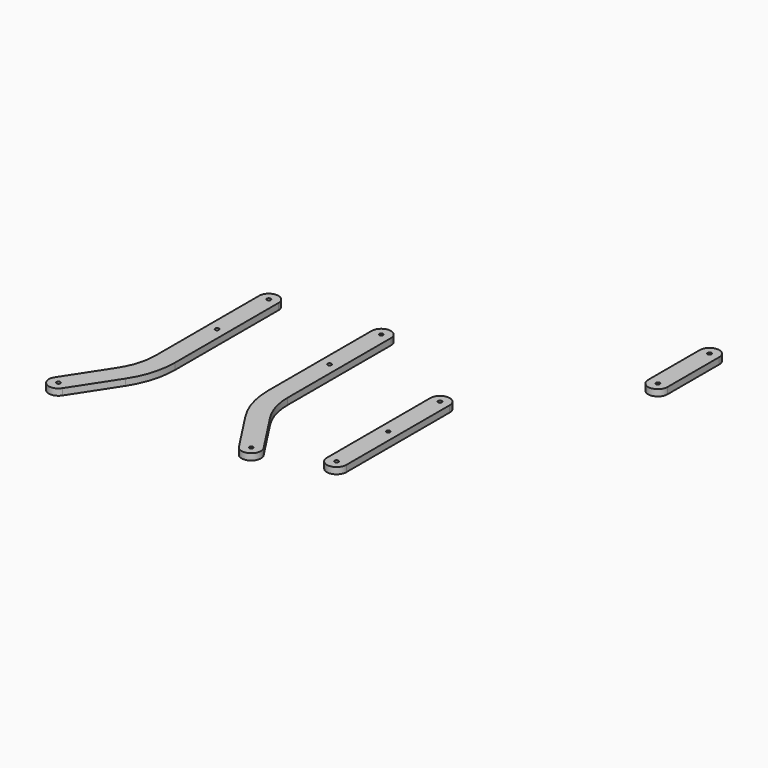
from build123d import *

# Parameters (mm, degrees)
F0_R     = 1.5
F1_DEPTH = 5
F3_DEPTH = 5
F4_DEPTH = 5
F6_DEPTH = 5


with BuildPart() as f1:
    # F0 (on Top) → F1 (new body)
    with BuildSketch(Plane.XY):
        with BuildLine():
            Line((31.873505, 19.199338), (25.873505, 19.199338))
            Line((25.873505, 19.199338), (25.873505, -80.800662))
            Line((25.873505, -80.800662), (31.873505, -80.800662))
            ThreePointArc((31.873505, -80.800662), (33.373505, -79.300662), (34.873505, -80.800662))
            Line((34.873505, -80.800662), (40.873505, -80.800662))
            Line((40.873505, -80.800662), (40.873505, 19.199338))
            Line((40.873505, 19.199338), (34.873505, 19.199338))
            ThreePointArc((34.873505, 19.199338), (33.373505, 17.699338), (31.873505, 19.199338))
        make_face()
        with Locations((33.373505, -30.800662)):
            Circle(F0_R, mode=Mode.SUBTRACT)
        with BuildLine():
            ThreePointArc((40.873505, 19.199338), (33.373505, 26.699338), (25.873505, 19.199338))
            Line((25.873505, 19.199338), (31.873505, 19.199338))
            ThreePointArc((31.873505, 19.199338), (33.373505, 20.699338), (34.873505, 19.199338))
            Line((34.873505, 19.199338), (40.873505, 19.199338))
        make_face()
        with BuildLine():
            Line((31.873505, -80.800662), (25.873505, -80.800662))
            ThreePointArc((25.873505, -80.800662), (33.373505, -88.300662), (40.873505, -80.800662))
            Line((40.873505, -80.800662), (34.873505, -80.800662))
            ThreePointArc((34.873505, -80.800662), (33.373505, -82.300662), (31.873505, -80.800662))
        make_face()
    extrude(amount=F1_DEPTH)


with BuildPart() as f3:
    # F2 (on Top) → F3 (new body)
    with BuildSketch(Plane.XY):
        with BuildLine():
            ThreePointArc((-41.700259, 65.622939), (-49.200259, 73.122939), (-56.700259, 65.622939))
            Line((-56.700259, 65.622939), (-50.700259, 65.622939))
            ThreePointArc((-50.700259, 65.622939), (-49.200259, 67.122939), (-47.700259, 65.622939))
            Line((-47.700259, 65.622939), (-41.700259, 65.622939))
        make_face()
        with BuildLine():
            Line((-50.700259, 65.622939), (-56.700259, 65.622939))
            Line((-56.700259, 65.622939), (-56.700259, -34.377061))
            Line((-56.700259, -34.377061), (-41.700259, -34.377061))
            Line((-41.700259, -34.377061), (-41.700259, 65.622939))
            Line((-41.700259, 65.622939), (-47.700259, 65.622939))
            ThreePointArc((-47.700259, 65.622939), (-48.139599, 64.562279), (-49.200259, 64.122939))
            ThreePointArc((-49.200259, 64.122939), (-50.26092, 64.562279), (-50.700259, 65.622939))
        make_face()
        with BuildLine():
            ThreePointArc((-47.700259, 15.622939), (-50.26092, 14.562279), (-49.200259, 17.122939))
            ThreePointArc((-49.200259, 17.122939), (-48.139599, 16.683599), (-47.700259, 15.622939))
        make_face(mode=Mode.SUBTRACT)
        with BuildLine():
            Line((-41.700259, -34.377061), (-56.700259, -34.377061))
            ThreePointArc((-56.700259, -34.377061), (-54.037216, -52.690552), (-46.268664, -69.48714))
            Line((-46.268664, -69.48714), (-33.702103, -61.296807))
            ThreePointArc((-33.702103, -61.296807), (-39.658439, -48.418457), (-41.700259, -34.377061))
        make_face()
        with BuildLine():
            Line((-33.702103, -61.296807), (-46.268664, -69.48714))
            Line((-46.268664, -69.48714), (-24.427779, -102.997969))
            Line((-24.427779, -102.997969), (-19.401154, -99.721836))
            ThreePointArc((-19.401154, -99.721836), (-18.963531, -97.646147), (-16.887842, -98.08377))
            Line((-16.887842, -98.08377), (-11.861217, -94.807637))
            Line((-11.861217, -94.807637), (-33.702103, -61.296807))
        make_face()
        with BuildLine():
            Line((-19.401154, -99.721836), (-24.427779, -102.997969))
            ThreePointArc((-24.427779, -102.997969), (-14.049332, -105.186084), (-11.861217, -94.807637))
            Line((-11.861217, -94.807637), (-16.887842, -98.08377))
            ThreePointArc((-16.887842, -98.08377), (-16.70662, -98.475594), (-16.644498, -98.902803))
            ThreePointArc((-16.644498, -98.902803), (-17.717289, -100.340681), (-19.401154, -99.721836))
        make_face()
    extrude(amount=F3_DEPTH)


with BuildPart() as f4:
    # F2 (on Top) → F4 (new body)
    with BuildSketch(Plane.XY):
        with BuildLine():
            Line((-129.458595, 59.056929), (-123.458595, 59.056929))
            ThreePointArc((-123.458595, 59.056929), (-130.958595, 66.556929), (-138.458595, 59.056929))
            Line((-138.458595, 59.056929), (-132.458595, 59.056929))
            ThreePointArc((-132.458595, 59.056929), (-130.958595, 60.556929), (-129.458595, 59.056929))
        make_face()
        with BuildLine():
            Line((-123.458595, -40.943071), (-123.458595, 59.056929))
            Line((-123.458595, 59.056929), (-129.458595, 59.056929))
            ThreePointArc((-129.458595, 59.056929), (-129.897935, 57.996268), (-130.958595, 57.556929))
            ThreePointArc((-130.958595, 57.556929), (-132.019255, 57.996268), (-132.458595, 59.056929))
            Line((-132.458595, 59.056929), (-138.458595, 59.056929))
            Line((-138.458595, 59.056929), (-138.458595, -40.943071))
            Line((-138.458595, -40.943071), (-123.458595, -40.943071))
        make_face()
        with BuildLine():
            ThreePointArc((-129.458595, 9.056929), (-132.019255, 7.996268), (-130.958595, 10.556929))
            ThreePointArc((-130.958595, 10.556929), (-129.897935, 10.117589), (-129.458595, 9.056929))
        make_face(mode=Mode.SUBTRACT)
        with BuildLine():
            ThreePointArc((-133.890106, -76.05315), (-126.121616, -59.25655), (-123.458595, -40.943071))
            Line((-123.458595, -40.943071), (-138.458595, -40.943071))
            ThreePointArc((-138.458595, -40.943071), (-140.500402, -54.984488), (-146.456703, -67.862873))
            Line((-146.456703, -67.862873), (-133.890106, -76.05315))
        make_face()
        with BuildLine():
            Line((-155.730844, -109.564076), (-133.890106, -76.05315))
            Line((-133.890106, -76.05315), (-146.456703, -67.862873))
            Line((-146.456703, -67.862873), (-168.297441, -101.373799))
            Line((-168.297441, -101.373799), (-163.270802, -104.64991))
            ThreePointArc((-163.270802, -104.64991), (-161.586936, -104.031059), (-160.514142, -105.468938))
            ThreePointArc((-160.514142, -105.468938), (-160.576264, -105.896144), (-160.757483, -106.287965))
            Line((-160.757483, -106.287965), (-155.730844, -109.564076))
        make_face()
        with BuildLine():
            ThreePointArc((-168.297441, -101.373799), (-166.109281, -111.752236), (-155.730844, -109.564076))
            Line((-155.730844, -109.564076), (-160.757483, -106.287965))
            ThreePointArc((-160.757483, -106.287965), (-162.83317, -106.725597), (-163.270802, -104.64991))
            Line((-163.270802, -104.64991), (-168.297441, -101.373799))
        make_face()
    extrude(amount=F4_DEPTH)


with BuildPart() as f6:
    # F5 (on Top) → F6 (new body)
    with BuildSketch(Plane.XY):
        with BuildLine():
            ThreePointArc((128.72631, 169.97406), (121.22631, 177.47406), (113.72631, 169.97406))
            Line((113.72631, 169.97406), (119.72631, 169.97406))
            ThreePointArc((119.72631, 169.97406), (121.22631, 171.47406), (122.72631, 169.97406))
            Line((122.72631, 169.97406), (128.72631, 169.97406))
        make_face()
        with BuildLine():
            Line((119.72631, 169.97406), (113.72631, 169.97406))
            Line((113.72631, 169.97406), (113.72631, 119.97406))
            Line((113.72631, 119.97406), (119.72631, 119.97406))
            ThreePointArc((119.72631, 119.97406), (121.22631, 121.47406), (122.72631, 119.97406))
            Line((122.72631, 119.97406), (128.72631, 119.97406))
            Line((128.72631, 119.97406), (128.72631, 169.97406))
            Line((128.72631, 169.97406), (122.72631, 169.97406))
            ThreePointArc((122.72631, 169.97406), (121.22631, 168.47406), (119.72631, 169.97406))
        make_face()
        with BuildLine():
            Line((119.72631, 119.97406), (113.72631, 119.97406))
            ThreePointArc((113.72631, 119.97406), (121.22631, 112.47406), (128.72631, 119.97406))
            Line((128.72631, 119.97406), (122.72631, 119.97406))
            ThreePointArc((122.72631, 119.97406), (121.22631, 118.47406), (119.72631, 119.97406))
        make_face()
    extrude(amount=F6_DEPTH)


solid = Compound([f1.part, f3.part, f4.part, f6.part])
